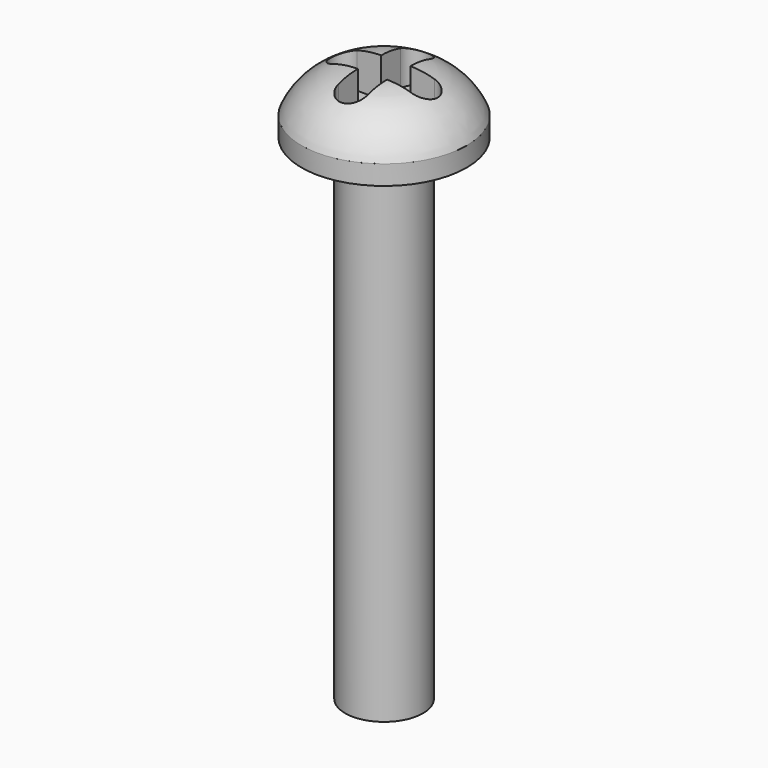
from build123d import *

# Parameters (mm, degrees)
POCKET003_DEPTH = 1
SKETCH010_R     = 1
PAD004_DEPTH    = 12.7


with BuildPart() as part:
    # Sketch008 → Revolution (revolve)
    with BuildSketch(Plane.XZ):
        with BuildLine():
            Line((0, 0), (0, 1.5748))
            Line((0, 1.5748), (0.5, 1.5748))
            ThreePointArc((2.1209, 0.5), (1.472434, 1.281687), (0.5, 1.5748))
            Line((2.1209, 0.5), (2.1209, 0))
            Line((2.1209, 0), (0, 0))
        make_face()
    revolve(axis=Axis((0, 0, 0), (0, 0, 1)))

    # Sketch009 (on Face1 of Revolution) → Pocket003 (cut)
    with BuildSketch(Plane(origin=(0, 0, 1.5748), x_dir=(-1, 0, 0), z_dir=(0, 0, 1))):
        with BuildLine():
            ThreePointArc((0.375, 1), (0, 1.375), (-0.375, 1))
            Line((-0.375, 1), (-0.375, 0.375))
            Line((-0.375, 0.375), (-1, 0.375))
            ThreePointArc((-1, 0.375), (-1.375, 0), (-1, -0.375))
            Line((-1, -0.375), (-0.375, -0.375))
            Line((-0.375, -0.375), (-0.375, -1))
            ThreePointArc((-0.375, -1), (0, -1.375), (0.375, -1))
            Line((0.375, -1), (0.375, -0.375))
            Line((0.375, -0.375), (1, -0.375))
            ThreePointArc((1, -0.375), (1.375, 0), (1, 0.375))
            Line((1, 0.375), (0.375, 0.375))
            Line((0.375, 0.375), (0.375, 1))
        make_face()
    extrude(amount=-POCKET003_DEPTH, mode=Mode.SUBTRACT)

    # Sketch010 (on Face16 of Pocket003) → Pad004 (join)
    with BuildSketch(Plane(origin=(0, 0, 0), x_dir=(1, 0, 0), z_dir=(0, 0, -1))):
        Circle(SKETCH010_R)
    extrude(amount=PAD004_DEPTH)


with BuildPart() as part_1:
    # Body002 placement: moved
    add(part.part.moved(Location((-14, 7, 7.75))))


solid = part_1.part
